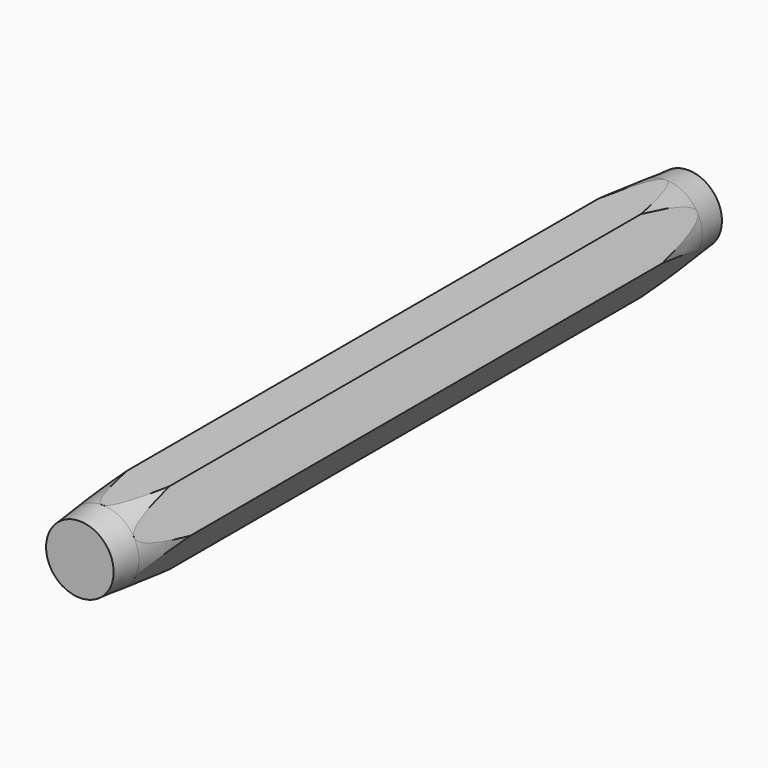
from build123d import *

# Parameters (mm, degrees)
F1_DEPTH = 13.5


with BuildPart() as f1:
    # F0 (on Front) → F1 (new body)
    with BuildSketch(Plane.XZ):
        Polygon((-0.75, 1.299038), (-1.5, 0), (-0.75, -1.299038), (0.75, -1.299038), (1.5, 0), (0.75, 1.299038), align=None)
    extrude(amount=F1_DEPTH)

    # F2 (on Right) → F3 (revolve, cut)
    with BuildSketch(Plane.YZ):
        Polygon((-15.530407, 0.998912), (-13.5, 1.2), (-12.5, 1.299038), (-0.627136, 2.474904), (-15.530407, 2.474904), align=None)
    revolve(axis=Axis((0, 7.533245, 0), (0, 1, 0)), mode=Mode.SUBTRACT)

    # F4: F1 across plane


with BuildPart() as f1_1:
    add(f1.part)
    add(f1.part.mirror(Plane.XZ))


solid = f1_1.part
